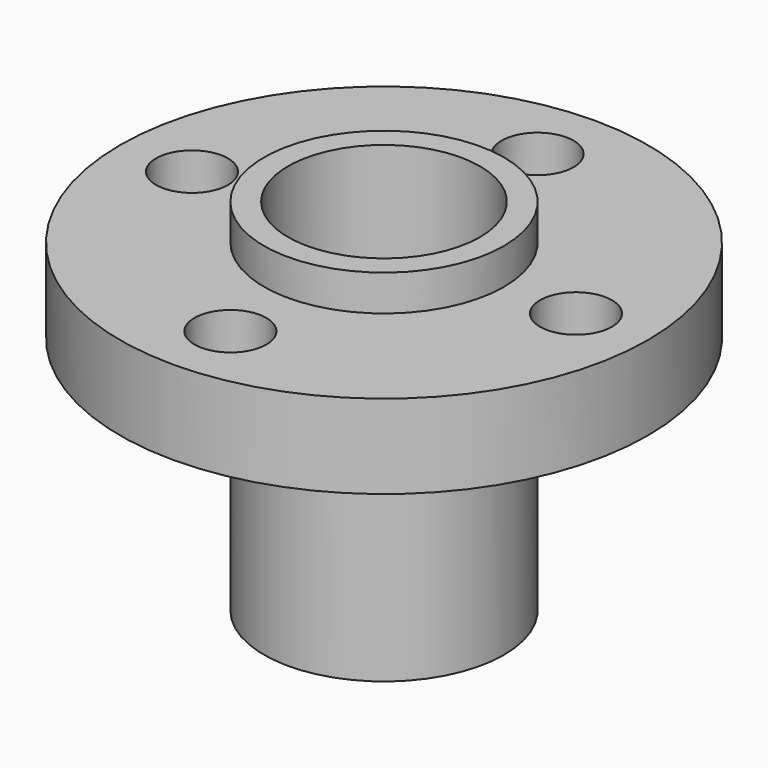
from build123d import *

# Parameters (mm, degrees)
F0_R     = 5
F0_R_2   = 4
F1_DEPTH = 15
F3_R     = 11
F3_R_2   = 1.5
F3_R_3   = 4
F4_DEPTH = 3.5


with BuildPart() as f1:
    # F0 (on Top) → F1 (new body)
    with BuildSketch(Plane.XY):
        Circle(F0_R)
        Circle(F0_R_2, mode=Mode.SUBTRACT)
    extrude(amount=F1_DEPTH)

    # F3 (on offset) → F4 (join)
    with BuildSketch(Plane.XY.offset(10)):
        Circle(F3_R)
        with Locations((0, -8)):
            Circle(F3_R_2, mode=Mode.SUBTRACT)
        with Locations((-8, 0)):
            Circle(F3_R_2, mode=Mode.SUBTRACT)
        Circle(F3_R_3, mode=Mode.SUBTRACT)
        with Locations((8, 0)):
            Circle(F3_R_2, mode=Mode.SUBTRACT)
        with Locations((0, 8)):
            Circle(F3_R_2, mode=Mode.SUBTRACT)
    extrude(amount=F4_DEPTH)


solid = f1.part
